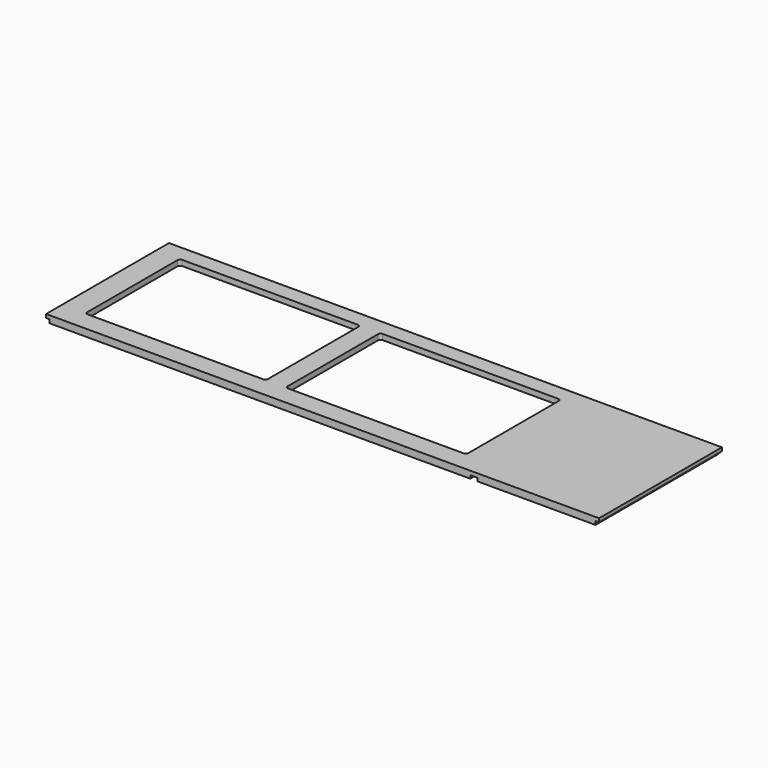
from build123d import *

# Parameters (mm, degrees)
SKETCH_W        = 1404
SKETCH_H        = 390
PAD_DEPTH       = 18
SKETCH001_W     = 9
SKETCH001_H     = 390
POCKET_DEPTH    = 9
SKETCH002_W     = 18
SKETCH002_H     = 390
POCKET001_DEPTH = 8
POCKET003_DEPTH = 18.001
SKETCH005_W     = 480
SKETCH005_H     = 320
POCKET004_DEPTH = 4
SKETCH006_R     = 2.5
POCKET005_DEPTH = 10


with BuildPart() as part:
    # Sketch → Pad (new body)
    with BuildSketch(Plane.XY):
        with Locations((-702, 195)):
            Rectangle(SKETCH_W, SKETCH_H)
    extrude(amount=PAD_DEPTH)

    # Sketch001 → Pocket (cut)
    with BuildSketch(Plane.XY):
        with Locations((-4.5, 195)):
            Rectangle(SKETCH001_W, SKETCH001_H)
        with Locations((-1399.5, 195)):
            Rectangle(SKETCH001_W, SKETCH001_H)
    extrude(amount=POCKET_DEPTH, mode=Mode.SUBTRACT)

    # Sketch002 (on Face4 of Pocket) → Pocket001 (cut)
    with BuildSketch(Plane(origin=(0, 0, 0), x_dir=(1, 0, 0), z_dir=(0, 0, -1))):
        with Locations((-318, -195)):
            Rectangle(SKETCH002_W, SKETCH002_H)
    extrude(amount=-POCKET001_DEPTH, mode=Mode.SUBTRACT)

    # Sketch004 → Pocket003 (cut, through all)
    with BuildSketch(Plane(origin=(0, 0, 0), x_dir=(1, 0, 0), z_dir=(0, 0, -1))):
        with BuildLine():
            Line((-383.35, -350), (-829.65, -350))
            ThreePointArc((-836, -343.65), (-834.140128, -348.140128), (-829.65, -350))
            Line((-836, -56.35), (-836, -343.65))
            ThreePointArc((-829.65, -50), (-834.140128, -51.859872), (-836, -56.35))
            Line((-383.35, -50), (-829.65, -50))
            ThreePointArc((-377, -56.35), (-378.859872, -51.859872), (-383.35, -50))
            Line((-377, -343.65), (-377, -56.35))
            ThreePointArc((-383.35, -350), (-378.859872, -348.140128), (-377, -343.65))
        make_face()
        with BuildLine():
            Line((-886, -56.35), (-886, -343.65))
            ThreePointArc((-892.35, -350), (-887.859872, -348.140128), (-886, -343.65))
            Line((-892.35, -350), (-1338.65, -350))
            ThreePointArc((-1345, -343.65), (-1343.140128, -348.140128), (-1338.65, -350))
            Line((-1345, -343.65), (-1345, -56.35))
            ThreePointArc((-1338.65, -50), (-1343.140128, -51.859872), (-1345, -56.35))
            Line((-1338.65, -50), (-892.35, -50))
            ThreePointArc((-886, -56.35), (-887.859872, -51.859872), (-892.35, -50))
        make_face()
    extrude(amount=-POCKET003_DEPTH, mode=Mode.SUBTRACT)

    # Sketch005 (on Face4 of Pocket003) → Pocket004 (cut)
    with BuildSketch(Plane(origin=(0, 0, 0), x_dir=(1, 0, 0), z_dir=(0, 0, -1))):
        with Locations((-606, -200)):
            Rectangle(SKETCH005_W, SKETCH005_H)
        with Locations((-1116, -200)):
            Rectangle(SKETCH005_W, SKETCH005_H)
    extrude(amount=-POCKET004_DEPTH, mode=Mode.SUBTRACT)

    # Sketch006 (on Face4 of Pocket004) → Pocket005 (cut)
    with BuildSketch(Plane(origin=(0, 0, 0), x_dir=(1, 0, 0), z_dir=(0, 0, -1))):
        with Locations((-433, -29)):
            Circle(SKETCH006_R)
        with Locations((-539, -29)):
            Circle(SKETCH006_R)
        with Locations((-645, -29)):
            Circle(SKETCH006_R)
        with Locations((-751, -29)):
            Circle(SKETCH006_R)
        with Locations((-857, -29)):
            Circle(SKETCH006_R)
        with Locations((-963, -29)):
            Circle(SKETCH006_R)
        with Locations((-1069, -29)):
            Circle(SKETCH006_R)
        with Locations((-1175, -29)):
            Circle(SKETCH006_R)
        with Locations((-1281, -29)):
            Circle(SKETCH006_R)
        with Locations((-433, -371)):
            Circle(SKETCH006_R)
        with Locations((-539, -371)):
            Circle(SKETCH006_R)
        with Locations((-645, -371)):
            Circle(SKETCH006_R)
        with Locations((-751, -371)):
            Circle(SKETCH006_R)
        with Locations((-857, -371)):
            Circle(SKETCH006_R)
        with Locations((-963, -371)):
            Circle(SKETCH006_R)
        with Locations((-1069, -371)):
            Circle(SKETCH006_R)
        with Locations((-1175, -371)):
            Circle(SKETCH006_R)
        with Locations((-1281, -371)):
            Circle(SKETCH006_R)
    extrude(amount=-POCKET005_DEPTH, mode=Mode.SUBTRACT)


solid = part.part
